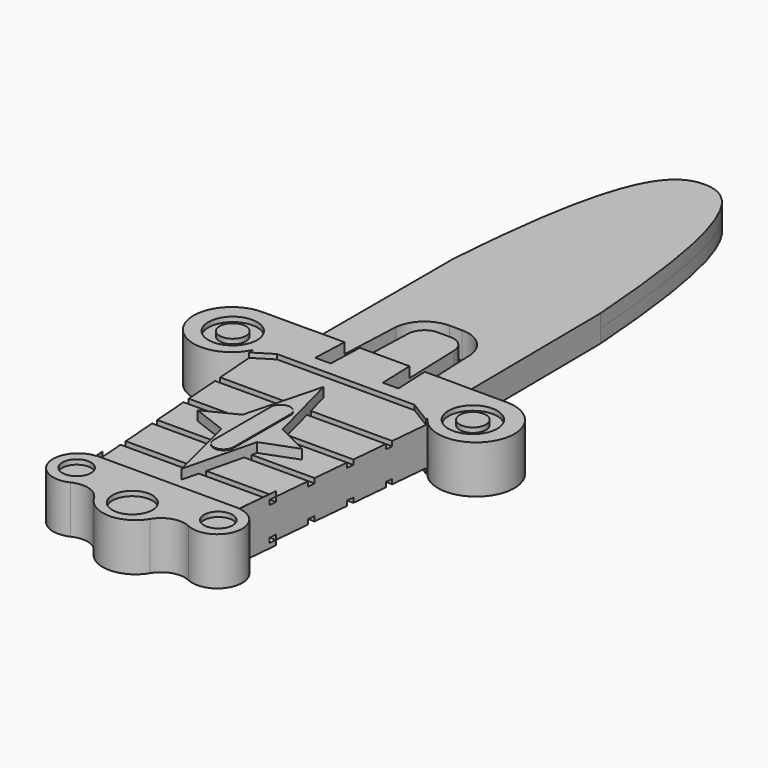
from build123d import *

# Parameters (mm, degrees)
PAD_DEPTH            = 2.5
SKETCH001_R          = 2.555442
SKETCH001_R_2        = 1.375226
POCKET_DEPTH         = 0.5
POCKET001_DEPTH      = 0.5
SKETCH003_R          = 1.5
SKETCH003_R_2        = 2.09927
POCKET002_DEPTH      = 0.5
SKETCH004_W          = 25.678928
SKETCH004_H          = 0.75
SKETCH004_W_2        = 30.745463
SKETCH004_W_3        = 29.049905
SKETCH004_W_4        = 30.659309
POCKET003_DEPTH      = 0.5
PAD001_DEPTH         = 3
PAD002_DEPTH         = 0.6
SKETCH007_W          = 78.083542
SKETCH007_H          = 50.719423
POCKET004_DEPTH      = 1.1
POCKET005_DEPTH      = 0.001
POCKET005_DEPTH_BACK = 3.101


with BuildPart() as body:
    # Sketch → Pad (new body)
    with BuildSketch(Plane.XY):
        with BuildLine():
            Line((-7.8, 16.0264), (-7.8, -2.6))
            Line((-7.8, -2.6), (-12.8, -2.6))
            ThreePointArc((-12.8, -2.6), (-16.1877, -8.726849), (-9.197436, -8.338256))
            Line((-9.197436, -8.338256), (-7.5, -31))
            ThreePointArc((-7.5, -31), (-9.819451, -34.286815), (-6.168523, -35.976113))
            ThreePointArc((-6.168523, -35.976113), (-4.366367, -35.844103), (-2.945382, -36.960344))
            ThreePointArc((-2.945382, -36.960344), (0, -38.637681), (2.945382, -36.960344))
            ThreePointArc((2.945382, -36.960344), (4.366367, -35.844103), (6.168523, -35.976113))
            ThreePointArc((6.168523, -35.976113), (9.819451, -34.286815), (7.5, -31))
            Line((7.5, -31), (9.554325, -8.93787))
            ThreePointArc((9.554325, -8.93787), (16.358809, -8.426178), (12.806558, -2.6))
            Line((12.806558, -2.6), (7.8, -2.6))
            Line((7.8, -2.6), (7.62305, 16.1465))
            add(Edge.make_bspline(
                [(-7.8, 16.0264), (-6.385188, 36.332146), (0.087059, 42.225872), (6.161571, 36.368305), (7.62305, 16.1465)],
                knots=[0, 0, 0, 0, 0.5, 1, 1, 1, 1], degree=3))
        make_face()
    extrude(amount=PAD_DEPTH)

    # Sketch001 (on Face16 of Pad) → Pocket (cut)
    with BuildSketch(Plane.XY.offset(2.5)):
        with Locations((-12.57534, -6.749557)):
            Circle(SKETCH001_R)
        with Locations((-12.57534, -6.749557)):
            Circle(SKETCH001_R_2, mode=Mode.SUBTRACT)
    pocket = extrude(amount=-POCKET_DEPTH, mode=Mode.SUBTRACT)

    # Mirrored: Pocket across Sketch001 V_Axis
    add(pocket.mirror(Plane(origin=(0, 0, 2.5), x_dir=(0, 0, 1), z_dir=(1, 0, 0))), mode=Mode.SUBTRACT)

    # Sketch002 (on Face5 of Mirrored) → Pocket001 (cut)
    with BuildSketch(Plane.XY.offset(2.5)):
        Polygon((-7.208538, -7.670029), (7.208538, -7.670029), (9.620068, -9.156864), (7.482564, -30.960011), (-7.482564, -30.960011), (-9.620068, -9.156864), align=None)
    extrude(amount=-POCKET001_DEPTH, mode=Mode.SUBTRACT)

    # Sketch003 (on Face22 of Pocket001) → Pocket002 (cut)
    with BuildSketch(Plane.XY.offset(2.5)):
        with Locations((-7.417672, -33.63208)):
            Circle(SKETCH003_R)
        with Locations((0, -35.615513)):
            Circle(SKETCH003_R_2)
        with Locations((7.417672, -33.63208)):
            Circle(SKETCH003_R)
    extrude(amount=-POCKET002_DEPTH, mode=Mode.SUBTRACT)

    # Sketch004 (on Face24 of Pocket002) → Pocket003 (cut)
    with BuildSketch(Plane.XY.offset(2)):
        with Locations((0.951669, -13.431006)):
            Rectangle(SKETCH004_W, SKETCH004_H)
        with Locations((0.668463, -17.981006)):
            Rectangle(SKETCH004_W_2, SKETCH004_H)
        with Locations((0.22304, -22.531006)):
            Rectangle(SKETCH004_W_3, SKETCH004_H)
        with Locations((0.062094, -27.081006)):
            Rectangle(SKETCH004_W_4, SKETCH004_H)
    extrude(amount=-POCKET003_DEPTH, mode=Mode.SUBTRACT)

    # Sketch005 → Pad001 (join)
    with BuildSketch(Plane.XY):
        Polygon((0, -10.596369), (-2.090962, -18.573618), (-5.450141, -20.252846), (-1.859346, -21.620846), (0, -29.185087), (1.859346, -21.620846), (5.493865, -20.252846), (2.090962, -18.573618), align=None)
    extrude(amount=PAD001_DEPTH)

    # Sketch006 (on Face77 of Pad001) → Pad002 (join)
    with BuildSketch(Plane.XY.offset(2.5)):
        with BuildLine():
            ThreePointArc((1.031497, -16.208279), (0, -15.176782), (-1.031497, -16.208279))
            Line((-1.031497, -16.208279), (-1.031497, -23.673308))
            ThreePointArc((-1.031497, -23.673308), (0, -24.704805), (1.031497, -23.673308))
            Line((1.031497, -16.208279), (1.031497, -23.673308))
        make_face()
    extrude(amount=PAD002_DEPTH)

    # Sketch007 (on Face5 of Pad002) → Pocket004 (cut)
    with BuildSketch(Plane.XY.offset(2.5)):
        with Locations((9.028824, 22.776684)):
            Rectangle(SKETCH007_W, SKETCH007_H)
    extrude(amount=-POCKET004_DEPTH, mode=Mode.SUBTRACT)

    # Sketch008 → Pocket005 (cut, two sides)
    with BuildSketch(Plane.XY) as pocket005_sk:
        with BuildLine():
            Line((-4.35796, -6.231198), (-2.729865, -6.231198))
            Line((-2.729865, -6.231198), (-2.396695, 3.532391))
            ThreePointArc((-0.672304, 5.185621), (-1.866738, 4.705546), (-2.396695, 3.532391))
            Line((-0.672304, 5.185621), (0.672304, 5.185621))
            ThreePointArc((2.396695, 3.532391), (1.866738, 4.705546), (0.672304, 5.185621))
            Line((2.396695, 3.532391), (2.729865, -6.231198))
            Line((2.729865, -6.231198), (4.35796, -6.231198))
            Line((4.35796, -6.231198), (3.922989, 3.781812))
            ThreePointArc((3.922989, 3.781812), (2.865303, 5.880745), (0.672304, 6.726304))
            Line((0.672304, 6.726304), (-0.672304, 6.726304))
            ThreePointArc((-0.672304, 6.726304), (-2.865303, 5.880745), (-3.922989, 3.781812))
            Line((-3.922989, 3.781812), (-4.35796, -6.231198))
        make_face()
    extrude(amount=-POCKET005_DEPTH, mode=Mode.SUBTRACT)
    extrude(pocket005_sk.sketch, amount=POCKET005_DEPTH_BACK, mode=Mode.SUBTRACT)


with BuildPart() as fusion:
    # Part__Mirroring: instance of Body
    add(body.part.mirror(Plane(origin=(0, 0, 0), x_dir=(0, 1, 0), z_dir=(0, 0, 1))))

    # Fusion: union Body
    add(body.part)


solid = fusion.part
